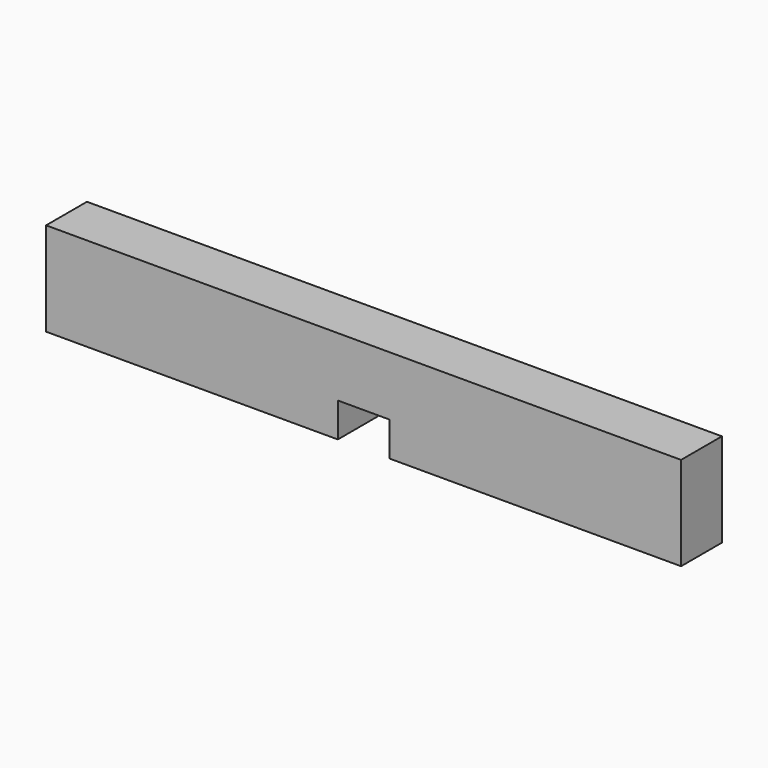
from build123d import *

# Parameters (mm, degrees)
F0_W     = 58.7375
F0_H     = 8.6614
F1_DEPTH = 4.7244
F3_DEPTH = 25.4


with BuildPart() as f1:
    # F0 (on Front) → F1 (new body)
    with BuildSketch(Plane.XZ):
        Rectangle(F0_W, F0_H)
    extrude(amount=F1_DEPTH)

    # F2 (on face) → F3 (cut)
    with BuildSketch(Plane.XZ.offset(4.7244)):
        Polygon((-2.38125, -4.3307), (0, -4.3307), (2.38125, -4.3307), (2.38125, -1.1557), (-2.38125, -1.1557), align=None)
    extrude(amount=-F3_DEPTH, mode=Mode.SUBTRACT)


solid = f1.part
